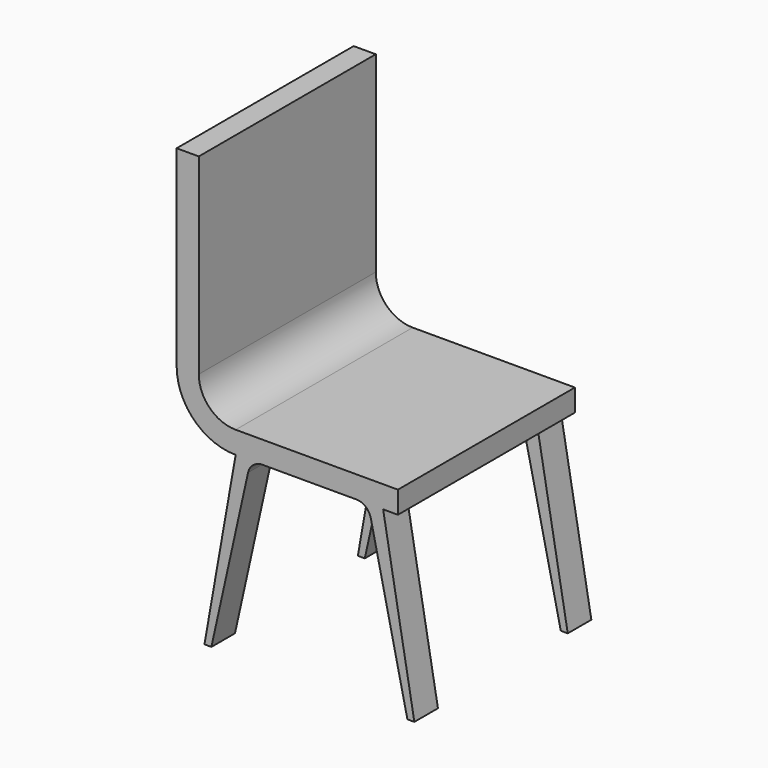
from build123d import *

# Parameters (mm, degrees)
F1_DEPTH = 190.5
F3_DEPTH = 50.8


with BuildPart() as f1:
    # F0 (on Front) → F1 (new body, symmetric)
    with BuildSketch(Plane.XZ):
        with BuildLine():
            Line((-342.9, 431.8), (-381, 431.8))
            Line((-381, 431.8), (-381, 101.6))
            ThreePointArc((-381, 101.6), (-351.2420489686, 29.7579510314), (-279.4, 0))
            Line((-279.4, 0), (0, 0))
            Line((0, 0), (0, 38.1))
            Line((0, 38.1), (-279.4, 38.1))
            ThreePointArc((-279.4, 38.1), (-324.3012806053, 56.6987193947), (-342.9, 101.6))
            Line((-342.9, 101.6), (-342.9, 431.8))
        make_face()
    extrude(amount=F1_DEPTH, both=True)

    # F2 (on face) → F3 (join)
    with BuildSketch(Plane.XZ.offset(190.5)):
        with BuildLine():
            Line((-279.4, 0), (-333.1444637199, -304.8))
            Line((-333.1444637199, -304.8), (-321.1806972317, -304.8))
            Line((-321.1806972317, -304.8), (-258.0204274065, -19.902433806))
            ThreePointArc((-258.0204274065, -19.902433806), (-249.1209650191, -5.5909341294), (-233.2225088256, 0))
            Line((-233.2225088256, 0), (-279.4, 0))
        make_face()
        with BuildLine():
            Line((-25.4, 0), (-71.5774911744, 0))
            ThreePointArc((-71.5774911744, 0), (-55.6790349809, -5.5909341294), (-46.7795725935, -19.902433806))
            Line((-46.7795725935, -19.902433806), (16.3806972317, -304.8))
            Line((16.3806972317, -304.8), (28.3444637199, -304.8))
            Line((28.3444637199, -304.8), (-25.4, 0))
        make_face()
    extrude(amount=-F3_DEPTH)

    # F4: F1 across plane


with BuildPart() as f1_1:
    add(f1.part)
    add(f1.part.mirror(Plane.XZ))


solid = f1_1.part
